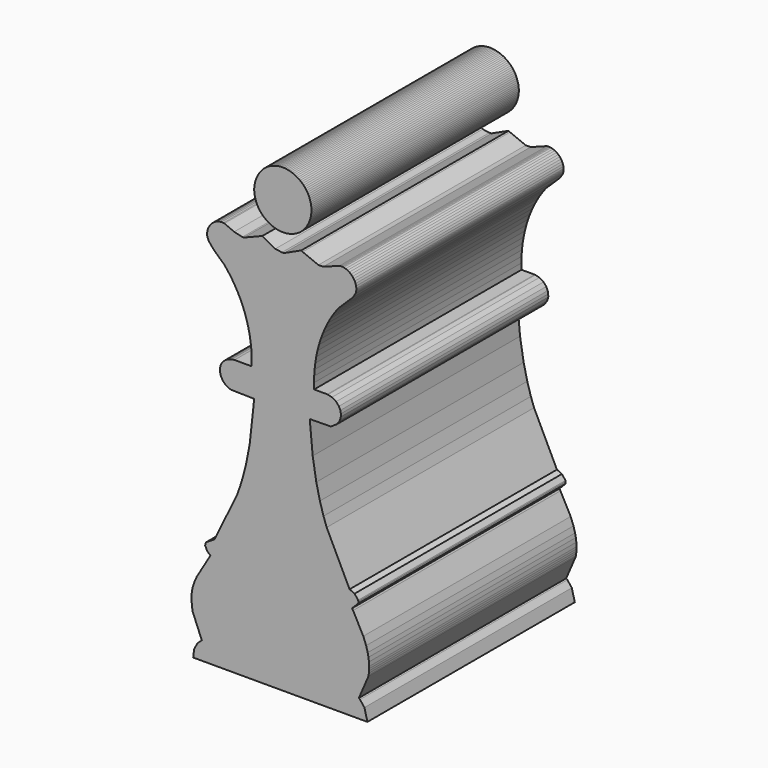
from build123d import *

# Parameters (mm, degrees)
F1_DEPTH = 20


with BuildPart() as f1:
    # F0 (on Front) → F1 (new body)
    with BuildSketch(Plane.XZ):
        Polygon((17.3529, 35.45064), (17.23624, 35.40924), (17.1246, 35.36805), (17.01629, 35.3204), (16.91145, 35.26656), (16.81024, 35.20684), (16.7128, 35.14151), (16.61928, 35.07086), (16.52983, 34.99519), (16.4446, 34.91477), (16.2874, 34.74087), (16.14887, 34.55145), (16.0302, 34.34882), (15.93259, 34.13528), (15.85721, 33.91313), (15.80527, 33.68466), (15.78847, 33.56878), (15.77797, 33.45219), (15.77392, 33.33516), (15.77648, 33.218), (15.78579, 33.10099), (15.802, 32.98441), (15.82527, 32.86855), (15.85573, 32.7537), (15.89355, 32.64015), (15.9324, 32.52848), (15.97761, 32.42003), (16.02893, 32.31495), (16.08606, 32.21338), (16.14875, 32.11546), (16.21671, 32.02135), (16.28967, 31.93117), (16.36737, 31.84508), (16.53584, 31.68573), (16.71993, 31.54443), (16.91747, 31.42234), (17.12624, 31.32059), (17.34408, 31.24033), (17.56877, 31.18271), (17.79814, 31.14887), (17.9139, 31.14122), (18.03, 31.13995), (18.14618, 31.1452), (18.26215, 31.15712), (18.37765, 31.17583), (18.4924, 31.2015), (18.60614, 31.23425), (18.7248, 31.26892), (18.84007, 31.31086), (18.95178, 31.35975), (19.05979, 31.41527), (19.16391, 31.47711), (19.264, 31.54493), (19.35988, 31.61842), (19.45139, 31.69727), (19.53838, 31.78115), (19.62067, 31.86975), (19.69811, 31.96274), (19.77052, 32.0598), (19.83776, 32.16063), (19.89965, 32.26488), (19.95604, 32.37226), (20.00676, 32.48243), (20.05164, 32.59508), (20.09052, 32.70989), (20.12325, 32.82654), (20.14966, 32.94471), (20.16958, 33.06408), (20.18285, 33.18434), (20.18931, 33.30515), (20.1888, 33.42621), (20.18115, 33.54719), (20.16621, 33.66778), (20.1438, 33.78765), (20.11376, 33.90649), (20.07594, 34.02397), (20.03706, 34.14147), (19.99108, 34.25538), (19.93833, 34.36554), (19.87913, 34.4718), (19.81378, 34.574), (19.74262, 34.672), (19.66597, 34.76563), (19.58414, 34.85474), (19.49745, 34.93918), (19.40622, 35.01879), (19.31078, 35.09343), (19.21144, 35.16292), (19.10852, 35.22713), (19.00234, 35.2859), (18.89323, 35.33906), (18.78149, 35.38648), (18.66746, 35.42799), (18.55145, 35.46343), (18.43379, 35.49267), (18.31478, 35.51553), (18.19475, 35.53187), (18.07403, 35.54153), (17.95292, 35.54436), (17.83176, 35.54021), (17.71086, 35.52891), (17.59053, 35.51032), (17.47111, 35.48429), align=None)
        Polygon((12.1526, 28.97331), (12.16977, 28.89667), (12.28382, 28.65341), (12.66617, 28.20357), (13.44949, 27.48125), (13.59836, 27.30275), (13.74216, 27.12027), (13.88086, 26.93396), (14.01442, 26.74399), (14.26596, 26.35366), (14.49648, 25.95049), (14.70567, 25.5357), (14.89325, 25.11052), (15.0589, 24.67617), (15.20232, 24.23388), (15.32322, 23.78487), (15.42129, 23.33036), (15.49623, 22.87158), (15.54773, 22.40975), (15.57551, 21.94608), (15.57924, 21.48182), (15.572, 21.24984), (14.25591, 21.25078), (14.01747, 21.21503), (13.86542, 21.17335), (13.72036, 21.11431), (13.58353, 21.03527), (13.51859, 20.98743), (13.45617, 20.9336), (13.39644, 20.87345), (13.33954, 20.80665), (13.29186, 20.74464), (13.25057, 20.68035), (13.21554, 20.61406), (13.1636, 20.47669), (13.13483, 20.33484), (13.12799, 20.19085), (13.14187, 20.04703), (13.17524, 19.9057), (13.22689, 19.7692), (13.29558, 19.63984), (13.38009, 19.51995), (13.47921, 19.41185), (13.59171, 19.31786), (13.71636, 19.24032), (13.85195, 19.18153), (13.99725, 19.14382), (15.77143, 19.10135), (15.42494, 15.91575), (15.14452, 14.46439), (14.90033, 13.51029), (14.68271, 12.80383), (14.43259, 12.10651), (12.70385, 8.55801), (12.04928, 8.14719), (12.01769, 8.05351), (11.9834, 7.90361), (12.16949, 7.55392), (12.39495, 7.35972), (11.34582, 5.59465), (11.17982, 5.22248), (11.08845, 4.96874), (11.01566, 4.70992), (10.96413, 4.44551), (10.94717, 4.31105), (10.93654, 4.17501), (10.93256, 4.03732), (10.93557, 3.89793), (10.94591, 3.75676), (11.00963, 3.1495), (11.72862, 1.38925), (11.39524, 1.08853), (11.14138, 0.60826), (11.06278, 0), (24.50961, 0), (24.27778, 0.90479), (23.93522, 1.33485), (23.84631, 1.40707), (24.59029, 3.13129), (24.59902, 3.19951), (24.62035, 3.35463), (24.63474, 3.50895), (24.64245, 3.66245), (24.64372, 3.81514), (24.62799, 4.11802), (24.58958, 4.41749), (24.5305, 4.71348), (24.40757, 5.15075), (24.19025, 5.72084), (23.40307, 7.2072), (23.32582, 7.33609), (23.80239, 7.81763), (23.80727, 7.9726), (23.7886, 8.04063), (23.52094, 8.39196), (23.13171, 8.5609), (21.3667, 12.18827), (21.1212, 12.88058), (20.84245, 13.81726), (20.56421, 15.00613), (20.28602, 16.69456), (20.05916, 19.12851), (21.68632, 19.14746), (22.14859, 19.45141), (22.38174, 19.78264), (22.46314, 20.07112), (22.4604, 20.27538), (22.41968, 20.48776), (22.30604, 20.72872), (22.09504, 20.97), (21.7748, 21.16574), (21.46287, 21.24216), (21.40924, 21.24552), (20.40021, 21.24892), (20.39031, 21.70245), (20.40114, 22.1568), (20.43274, 22.61076), (20.48517, 23.06313), (20.55849, 23.51273), (20.65275, 23.95836), (20.76803, 24.39881), (20.90437, 24.8329), (21.06183, 25.25942), (21.24047, 25.67718), (21.44035, 26.08499), (21.66152, 26.48165), (21.78012, 26.67542), (21.90406, 26.86596), (22.03335, 27.05311), (22.168, 27.23672), (22.30802, 27.41665), (23.3754, 28.4592), (23.58625, 28.78647), (23.61383, 28.86374), (23.6341, 28.94162), (23.64732, 29.01984), (23.65375, 29.09814), (23.65365, 29.17623), (23.63487, 29.33072), (23.59304, 29.48114), (23.53023, 29.62531), (23.44848, 29.76108), (23.34987, 29.88625), (23.23644, 29.99866), (23.11027, 30.09613), (22.9734, 30.17649), (22.8279, 30.23757), (22.67583, 30.27719), (22.59797, 30.28828), (22.51924, 30.29318), (22.4399, 30.29163), (22.3602, 30.28336), (21.09958, 29.81012), (20.722, 29.80715), (19.51341, 30.30523), (19.40698, 30.36799), (18.08436, 29.75835), (17.9128, 29.74762), (17.40378, 29.82367), (16.40039, 30.37189), (14.98198, 29.80314), (14.86586, 29.79981), (14.22595, 29.94739), (13.47895, 30.27573), (13.40157, 30.2876), (13.24752, 30.29236), (13.09599, 30.27339), (12.94889, 30.23262), (12.80814, 30.17199), (12.67564, 30.09341), (12.55331, 29.99882), (12.44305, 29.89013), (12.34678, 29.76929), (12.2664, 29.63821), (12.20382, 29.49881), (12.16096, 29.35303), (12.13973, 29.2028), (12.14203, 29.05004), align=None)
    extrude(amount=F1_DEPTH)


solid = f1.part
